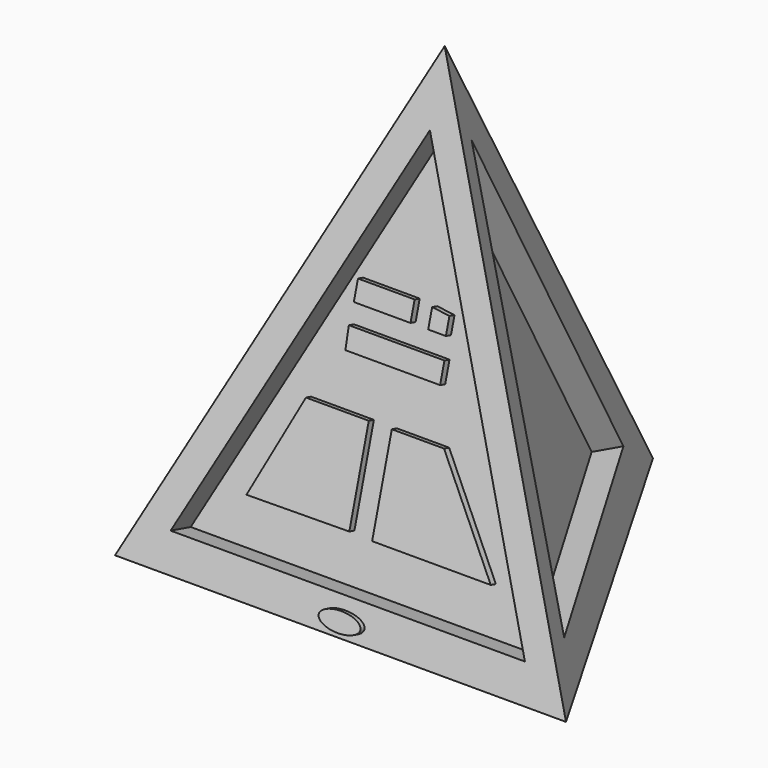
from build123d import *

# Parameters (mm, degrees)
F6_DEPTH  = 50
F8_DEPTH  = 50
F11_DEPTH = 10
F9_W      = 108.7769791484
F9_H      = 37.0438992977
F12_DEPTH = 12.7


with BuildPart() as f4:
    # F0 (on Top) → F4 section 0
    with BuildSketch(Plane.XY, mode=Mode.PRIVATE) as f4_s0:
        Polygon((-433.0127018922, -250), (433.0127018922, -250), (0, 500), align=None)
    loft([f4_s0.sketch, Vertex(0, 0, 900)])

    # F5 (on face) → F6 (cut)
    with BuildSketch(Plane(origin=(0, -232.0916905444, 64.4699140401), x_dir=(1, 0, 0), z_dir=(0, -0.9635179096, 0.2676438638))):
        Polygon((339.7423923016, 0), (0, 734.6025705338), (-340.5417487738, 0), align=None)
    extrude(amount=-F6_DEPTH, mode=Mode.SUBTRACT)

    # F7 (on face) → F8 (cut)
    with BuildSketch(Plane(origin=(200.9973000187, 116.0458452722, 64.4699140401), x_dir=(-0.458738865, 0.8763037769, -0.1471405596), z_dir=(0.8344309867, 0.4817589548, 0.2676438638))):
        Polygon((291.1387085915, 69.377720356), (-116.6230589151, 700.2393603325), (-308.3382844925, -33.8495075703), align=None)
    extrude(amount=-F8_DEPTH, mode=Mode.SUBTRACT)

    # F10 (on face) → F11 (join)
    with BuildSketch(Plane(origin=(0, -232.0916905444, 64.4699140401), x_dir=(1, 0, 0), z_dir=(0, -0.9635179096, 0.2676438638))):
        with BuildLine():
            add(Edge.make_bspline(
                [(40.1289761066, -39.7394858301), (40.1289761066, -9.8174087107), (-20.0644880533, -24.7784472704), (-80.2579522133, -39.7394858301), (-20.0644880533, -54.7005243897), (40.1289761066, -69.6615629494), (40.1289761066, -39.7394858301)],
                knots=[0, 0, 0, 2.0943951024, 2.0943951024, 4.1887902048, 4.1887902048, 6.2831853072, 6.2831853072, 6.2831853072], degree=2, weights=[1, 0.5, 1, 0.5, 1, 0.5, 1]))
        make_face()
    extrude(amount=F11_DEPTH)

    # F9 (on face) → F12 (join)
    with BuildSketch(Plane(origin=(0, -183.9157950629, 51.0877208508), x_dir=(1, 0, 0), z_dir=(0, -0.9635179096, 0.2676438638))):
        Polygon((-164.8651063442, 258.7849199772), (-241.3489073515, 82.3854953051), (-44.1906489432, 84.1495096684), (-44.1906489432, 258.7849199772), align=None)
        Polygon((100.2787798643, 258.7849199772), (0, 258.7849199772), (0, 82.3854953051), (227.7518063784, 82.3854953051), align=None)
        Polygon((-110.4766204953, 389.3205523491), (-108.7769791484, 350.5126535892), (73.084525764, 350.5126535892), (73.084525764, 389.3205523491), align=None)
        with Locations((-54.3884895742, 444.886341691)):
            Rectangle(F9_W, F9_H)
        Polygon((67.9856017232, 458.1163227558), (33.9928083122, 461.6443216801), (33.9928083122, 426.3643920422), (67.9856017232, 426.3643920422), align=None)
    extrude(amount=F12_DEPTH)


solid = f4.part
